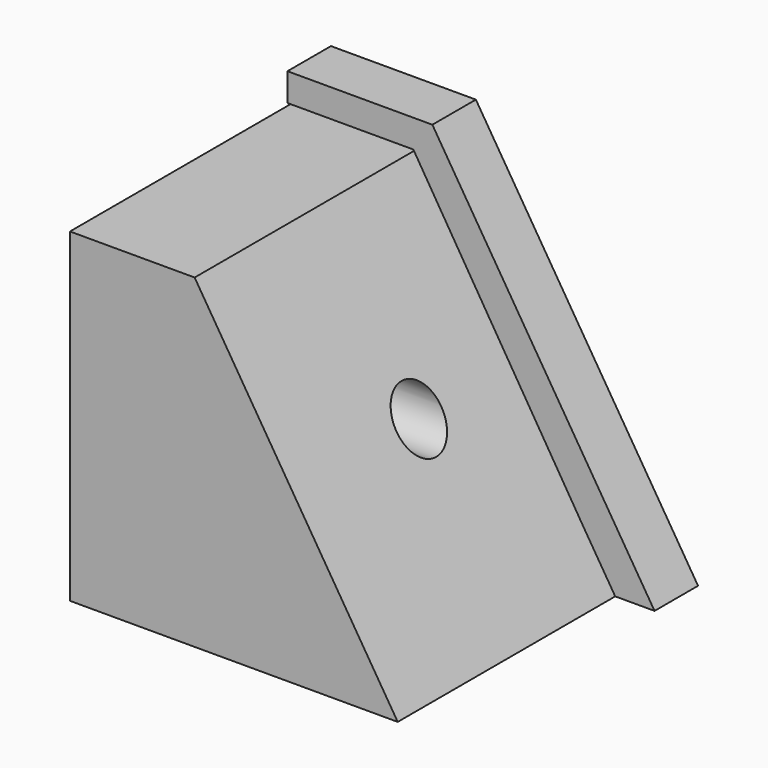
from build123d import *

# Parameters (mm, degrees)
F1_DEPTH = 76.2
F2_R     = 6.494867
F3_DEPTH = 254
F5_DEPTH = 12.7


with BuildPart() as f1:
    # F0 (on Front) → F1 (new body)
    with BuildSketch(Plane.XZ):
        Polygon((0, 75.956963), (0, 0), (76.557413, 0), (29.121837, 75.956963), align=None)
    extrude(amount=F1_DEPTH)

    # F2 (on Right) → F3 (cut)
    with BuildSketch(Plane.YZ):
        with Locations((-39.329495, 39.329492)):
            Circle(F2_R)
    extrude(amount=F3_DEPTH, mode=Mode.SUBTRACT)


with BuildPart() as f5:
    # F4 (on Front) → F5 (new body)
    with BuildSketch(Plane.XZ):
        Polygon((29.411094, 76.557413), (76.435894, 0), (85.742868, 0), (33.848555, 83.096587), (0, 83.096587), (0, 76.557413), align=None)
    extrude(amount=F5_DEPTH)


solid = Compound([f1.part, f5.part])
